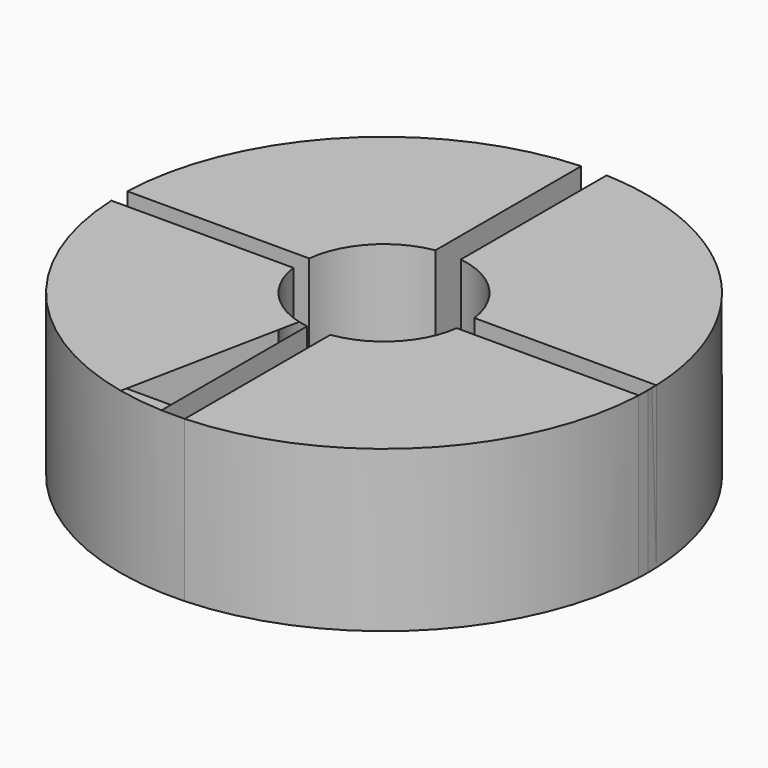
from build123d import *

# Parameters (mm, degrees)
F1_DEPTH = 25


with BuildPart() as f1:
    # F0 (on Top) → F1 (new body)
    with BuildSketch(Plane.XY):
        with BuildLine():
            ThreePointArc((-41.0657158334, -1.7378361662), (-27.7801587982, -30.2931653776), (1.8160902073, -41.0623295468))
            Line((1.8160902073, -41.0623295468), (-1.8047753104, -41.0623295468))
            Line((-1.8047753104, -41.0623295468), (-1.8047753104, -12.7114099216))
            ThreePointArc((-1.8047753104, -12.7114099216), (-9.1023314446, -9.0545413129), (-12.7207343175, -1.7378361662))
            Line((-12.7207343175, -1.7378361662), (-41.0657158334, -1.7378361662))
        make_face()
    extrude(amount=F1_DEPTH)


with BuildPart() as f1b:
    # F0 (on Top) → F1, piece 2 (new body)
    with BuildSketch(Plane.XY):
        with BuildLine():
            ThreePointArc((1.8160902073, -41.0623295468), (29.0915153822, -29.0361296355), (41.0657158334, -1.7378361662))
            Line((41.0657158334, -1.7378361662), (12.7262180548, -1.7378361662))
            Line((12.7262180548, -1.7378361662), (12.7262180548, -1.6972124612))
            ThreePointArc((12.7262180548, -1.6972124612), (9.116774565, -9.0399987637), (1.8047753104, -12.7114099216))
            Line((1.8047753104, -12.7114099216), (1.8160902073, -12.7114099216))
            Line((1.8160902073, -12.7114099216), (1.8160902073, -41.0623295468))
        make_face()
    extrude(amount=F1_DEPTH)


with BuildPart() as f1c:
    # F0 (on Top) → F1, piece 3 (new body)
    with BuildSketch(Plane.XY):
        with BuildLine():
            ThreePointArc((41.0657158334, -1.7378361662), (41.0932808995, -0.8691124), (41.1024706246, 0))
            ThreePointArc((41.1024706246, 0), (29.6966103502, 28.4169742435), (1.8092401747, 41.0626319351))
            Line((1.8092401747, 41.0626319351), (1.8092401747, 12.7107751969))
            ThreePointArc((1.8092401747, 12.7107751969), (9.1183621072, 9.0383974574), (12.7262180548, 1.6972124612))
            Line((12.7262180548, 1.6972124612), (41.0657158334, 1.6972124612))
            Line((41.0657158334, 1.6972124612), (41.0657158334, -1.7378361662))
        make_face()
    extrude(amount=F1_DEPTH)


with BuildPart() as f1d:
    # F0 (on Top) → F1, piece 4 (new body)
    with BuildSketch(Plane.XY):
        with BuildLine():
            Line((-2.1123124965, 12.663936672), (-2.1123124965, 41.0481574174))
            ThreePointArc((-2.1123124965, 41.0481574174), (-29.3147192569, 28.8107675416), (-41.0786117176, 1.4002681169))
            Line((-41.0786117176, 1.4002681169), (-12.7623040755, 1.4002681169))
            ThreePointArc((-12.7623040755, 1.4002681169), (-9.3290466754, 8.8207734494), (-2.1123124965, 12.663936672))
        make_face()
    extrude(amount=F1_DEPTH)


solid = Compound([f1.part, f1b.part, f1c.part, f1d.part])
